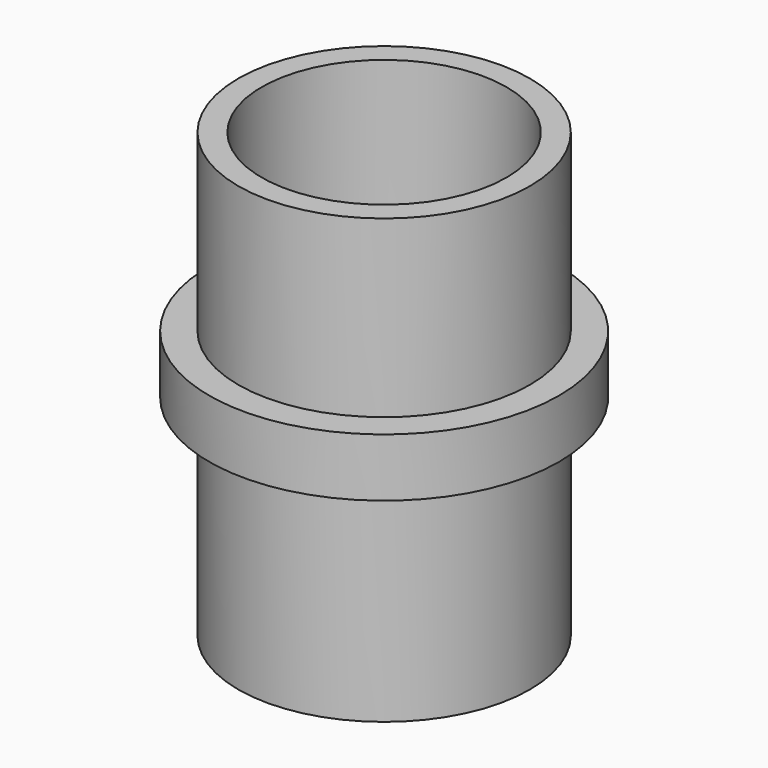
from build123d import *

# Parameters (mm, degrees)
SKETCH_R      = 30
SKETCH_R_2    = 21
PAD_DEPTH     = 10
SKETCH001_R   = 25
SKETCH001_R_2 = 21
PAD001_DEPTH  = 36
SKETCH002_R   = 25
SKETCH002_R_2 = 21
PAD002_DEPTH  = 30


with BuildPart() as part:
    # Sketch → Pad (new body)
    with BuildSketch(Plane.XY):
        Circle(SKETCH_R)
        Circle(SKETCH_R_2, mode=Mode.SUBTRACT)
    extrude(amount=PAD_DEPTH)

    # Sketch001 (on Face3 of Pad) → Pad001 (join)
    with BuildSketch(Plane(origin=(0, 0, 0), x_dir=(1, 0, 0), z_dir=(0, 0, -1))):
        Circle(SKETCH001_R)
        Circle(SKETCH001_R_2, mode=Mode.SUBTRACT)
    extrude(amount=PAD001_DEPTH)

    # Sketch002 (on Face3 of Pad001) → Pad002 (join)
    with BuildSketch(Plane.XY.offset(10)):
        Circle(SKETCH002_R)
        Circle(SKETCH002_R_2, mode=Mode.SUBTRACT)
    extrude(amount=PAD002_DEPTH)


solid = part.part
